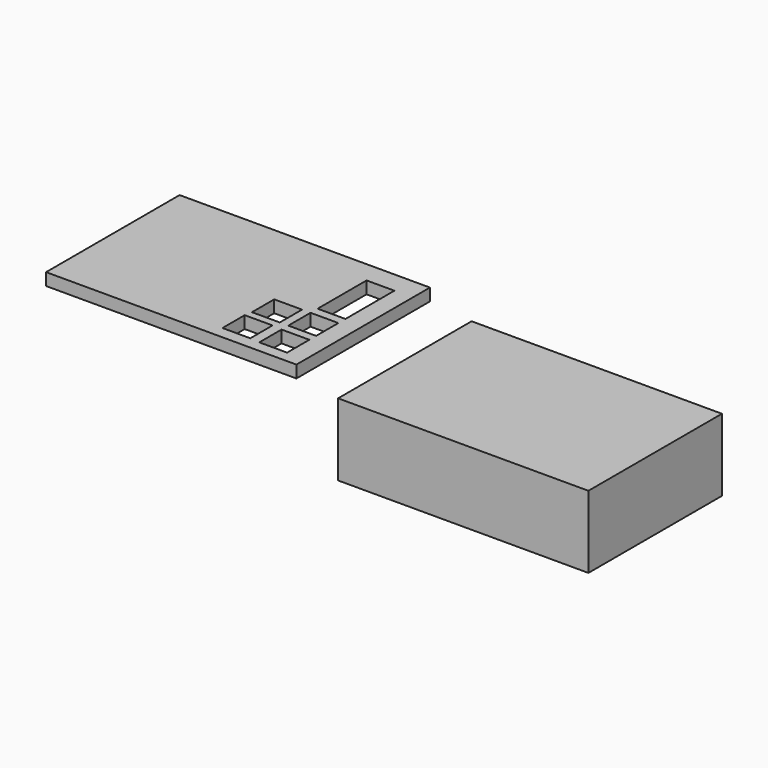
from build123d import *

# Parameters (mm, degrees)
F0_W     = 114.3
F0_H     = 76.2
F1_DEPTH = 7.62
F2_W     = 105.41
F2_H     = 67.31
F3_DEPTH = 25.4
F4_W     = 50.8
F4_H     = 12.7
F5_DEPTH = 4.445
F6_W     = 12.7
F6_H     = 12.7
F6_H_2   = 27.94
F7_DEPTH = 5.588


with BuildPart() as f1:
    # F0 (on Top) → F1 (new body)
    with BuildSketch(Plane.XY):
        with Locations((9.471919, -11.993243)):
            Rectangle(F0_W, F0_H)
    extrude(amount=F1_DEPTH)

    # F2 (on face) → F3 (join)
    with BuildSketch(Plane(origin=(0, 0, 0), x_dir=(1, 0, 0), z_dir=(0, 0, -1))):
        Polygon((-47.678081, -23.566757), (-47.678081, -26.106757), (25.981919, -26.106757), (66.621919, -26.106757), (66.621919, 45.648243), (66.621919, 50.093243), (-43.233081, 50.093243), (-47.678081, 50.093243), align=None)
        with Locations((9.471919, 11.993243)):
            Rectangle(F2_W, F2_H, mode=Mode.SUBTRACT)
    extrude(amount=F3_DEPTH)

    # F4 (on face) → F5 (cut)
    with BuildSketch(Plane(origin=(-47.678081, 0, 0), x_dir=(0, -1, 0), z_dir=(-1, 0, 0))):
        with Locations((20.248243, -6.533841)):
            Rectangle(F4_W, F4_H)
    extrude(amount=-F5_DEPTH, mode=Mode.SUBTRACT)


with BuildPart() as f7:
    # F6 (on Top) → F7 (new body)
    with BuildSketch(Plane.XY):
        Polygon((-77.982212, 40.199725), (-192.282212, 40.199725), (-192.282212, -36.000275), (-77.982212, -36.000275), (-77.982212, -30.854341), align=None)
        with Locations((-109.87301, -24.05386)):
            Rectangle(F6_W, F6_H, mode=Mode.SUBTRACT)
        with Locations((-92.699263, -24.504341)):
            Rectangle(F6_W, F6_H, mode=Mode.SUBTRACT)
        with Locations((-109.286393, -7.943684)):
            Rectangle(F6_W, F6_H, mode=Mode.SUBTRACT)
        with Locations((-92.699263, -7.943684)):
            Rectangle(F6_W, F6_H, mode=Mode.SUBTRACT)
        with Locations((-92.699263, 16.414591)):
            Rectangle(F6_W, F6_H_2, mode=Mode.SUBTRACT)
    extrude(amount=F7_DEPTH)


solid = Compound([f1.part, f7.part])
